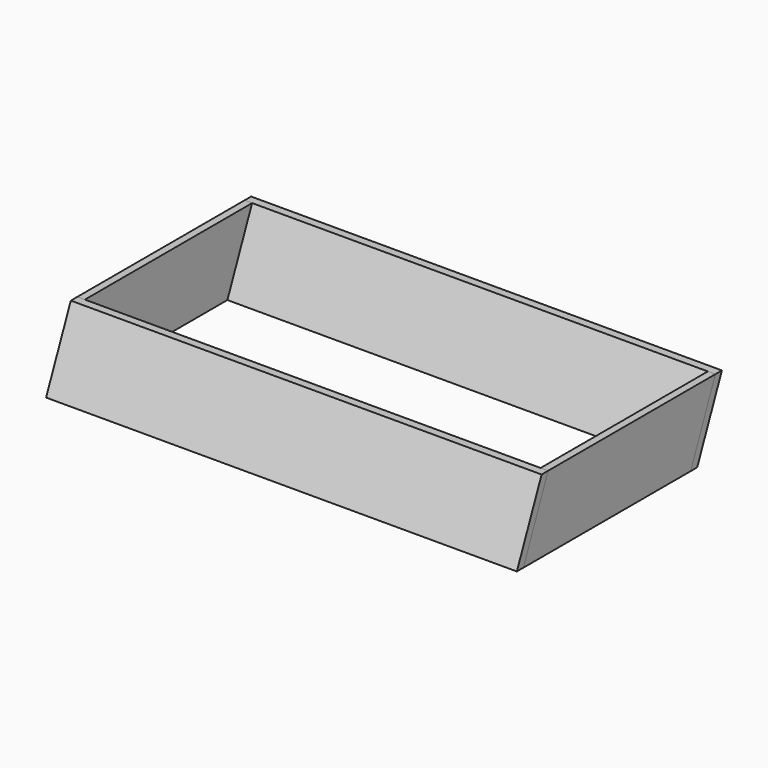
from build123d import *

# Parameters (mm, degrees)
F1_DEPTH      = 2
F2_DEPTH      = 123
F2_DEPTH_BACK = 2


with BuildPart() as f1:
    # F0 (on Right) → F1 (new body)
    with BuildSketch(Plane.YZ):
        Polygon((34.071809, 0), (-21.430229, 0), (-29.635582, -19.330602), (25.866456, -19.330602), align=None)
    extrude(amount=-F1_DEPTH)


with BuildPart() as f2:
    # F0 (on Right) → F2 (new body, two sides)
    with BuildSketch(Plane.YZ) as f2_sk:
        Polygon((36.24453, 0), (34.071809, 0), (25.866456, -19.330602), (28.039177, -19.330602), align=None)
        Polygon((-21.430229, 0), (-23.602949, 0), (-31.808303, -19.330602), (-29.635582, -19.330602), align=None)
    extrude(amount=F2_DEPTH)
    extrude(f2_sk.sketch, amount=-F2_DEPTH_BACK)


with BuildPart() as f3_1:
    # F3: copy of F1
    add(f1.part.moved(Location((123, 0, 0))))


solid = Compound([f1.part, f2.part, f3_1.part])
